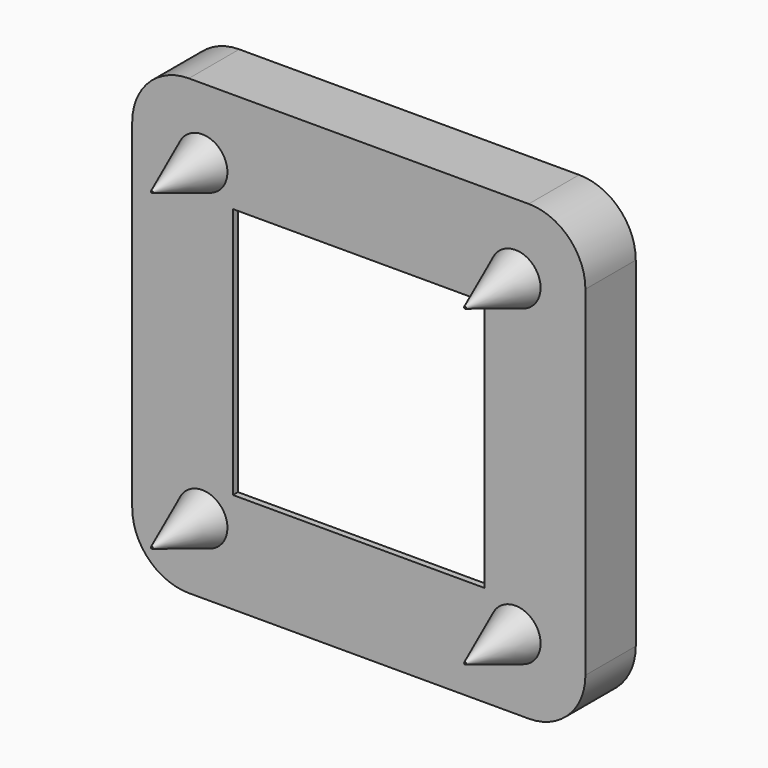
from build123d import *

# Parameters (mm, degrees)
F1_DEPTH = 3
F2_R     = 4
F3_DEPTH = 10
F3_TAPER = 21
F5_COUNT = 4
F5_ANGLE = 270
F7_DEPTH = 10
F8_W     = 40
F8_H     = 40
F9_DEPTH = 3
F10_SIZE = 2


with BuildPart() as f1:
    # F0 (on Front) → F1 (new body)
    with BuildSketch(Plane.XZ):
        with BuildLine():
            ThreePointArc((32, 27), (30.5355339059, 30.5355339059), (27, 32))
            Line((27, 32), (-27, 32))
            ThreePointArc((-27, 32), (-30.5355339059, 30.5355339059), (-32, 27))
            Line((-32, 27), (-32, -27))
            ThreePointArc((-32, -27), (-30.5355339059, -30.5355339059), (-27, -32))
            Line((-27, -32), (27, -32))
            ThreePointArc((27, -32), (30.5355339059, -30.5355339059), (32, -27))
            Line((32, -27), (32, 27))
        make_face()
    extrude(amount=F1_DEPTH)

    # F2 (on face) → F3 (join)
    with BuildSketch(Plane.XZ.offset(3)):
        with Locations((-24.8786796564, 24.8786796564)):
            Circle(F2_R)
    extrude(amount=F3_DEPTH, taper=F3_TAPER)

    # F5: F1 ×4 about axis
    f5_axis = Axis((0, -16.6125968099, 0), (0, -1, 0))


with BuildPart() as f1_1:
    add(f1.part)
    for i in range(1, F5_COUNT):
        add(f1.part.rotate(f5_axis, i * F5_ANGLE / (F5_COUNT - 1)))

    # F6 (on face) → F7 (join)
    with BuildSketch(Plane.XZ.offset(3)):
        with BuildLine():
            ThreePointArc((-27, 36), (-33.3639610307, 33.3639610307), (-36, 27))
            Line((-36, 27), (-36, -27))
            ThreePointArc((-36, -27), (-33.3639610307, -33.3639610307), (-27, -36))
            Line((-27, -36), (27, -36))
            ThreePointArc((27, -36), (33.3639610307, -33.3639610307), (36, -27))
            Line((36, -27), (36, 27))
            ThreePointArc((36, 27), (33.3639610307, 33.3639610307), (27, 36))
            Line((27, 36), (-27, 36))
        make_face()
        with BuildLine():
            ThreePointArc((27, 32), (30.5355339059, 30.5355339059), (32, 27))
            Line((32, 27), (32, -27))
            ThreePointArc((32, -27), (30.5355339059, -30.5355339059), (27, -32))
            Line((27, -32), (-27, -32))
            ThreePointArc((-27, -32), (-30.5355339059, -30.5355339059), (-32, -27))
            Line((-32, -27), (-32, 27))
            ThreePointArc((-32, 27), (-30.5355339059, 30.5355339059), (-27, 32))
            Line((-27, 32), (27, 32))
        make_face(mode=Mode.SUBTRACT)
    extrude(amount=-F7_DEPTH)

    # F8 (on face) → F9 (cut)
    with BuildSketch(Plane.XZ.offset(3)):
        Rectangle(F8_W, F8_H)
    extrude(amount=-F9_DEPTH, mode=Mode.SUBTRACT)

    # F10
    f10_edges = [f1_1.edges().sort_by_distance(p)[0] for p in [
        (0, 7, -32),
        (0, 0, -20),
        (20, 0, 0),
        (-20, 0, 0),
        (0, 0, 20),
    ]]
    chamfer(f10_edges, length=F10_SIZE)


solid = f1_1.part
